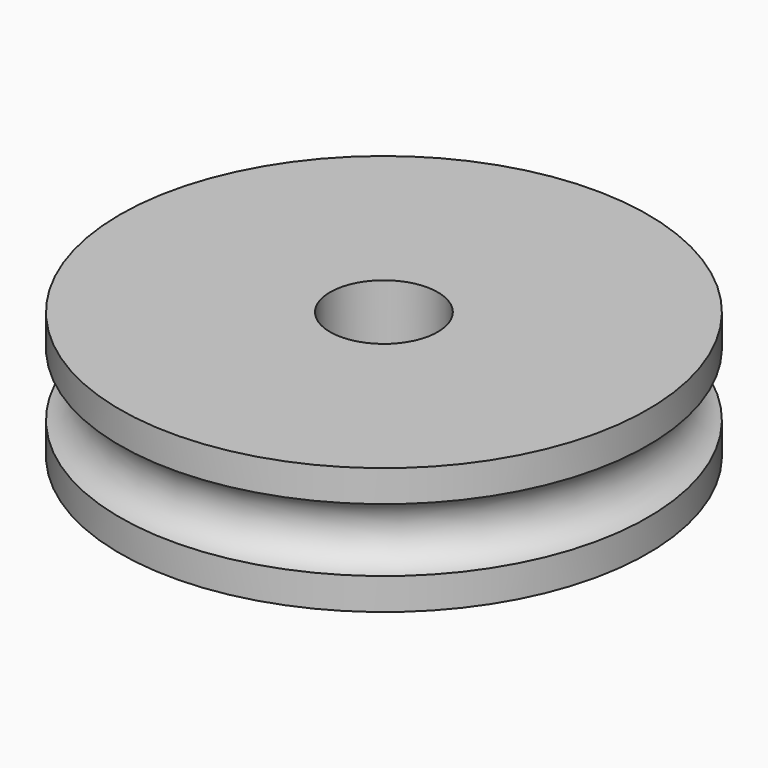
from build123d import *

# Parameters (mm, degrees)
F3_D = 5.1


with BuildPart() as f1:
    # F0 (on Front) → F1 (revolve)
    with BuildSketch(Plane.XZ):
        with BuildLine():
            Line((-12.5, 0), (0, 0))
            Line((0, 0), (0, 6))
            Line((0, 6), (-12.5, 6))
            Line((-12.5, 6), (-12.5, 4.5))
            ThreePointArc((-12.5, 4.5), (-11.3, 3), (-12.5, 1.5))
            Line((-12.5, 1.5), (-12.5, 0))
        make_face()
    revolve(axis=Axis((0, 0, 3), (0, 0, 1)))

    # F3 (through all)
    with Locations(Plane.XY.offset(6)):
        with Locations((0, 0)):
            Hole(F3_D / 2)


solid = f1.part
